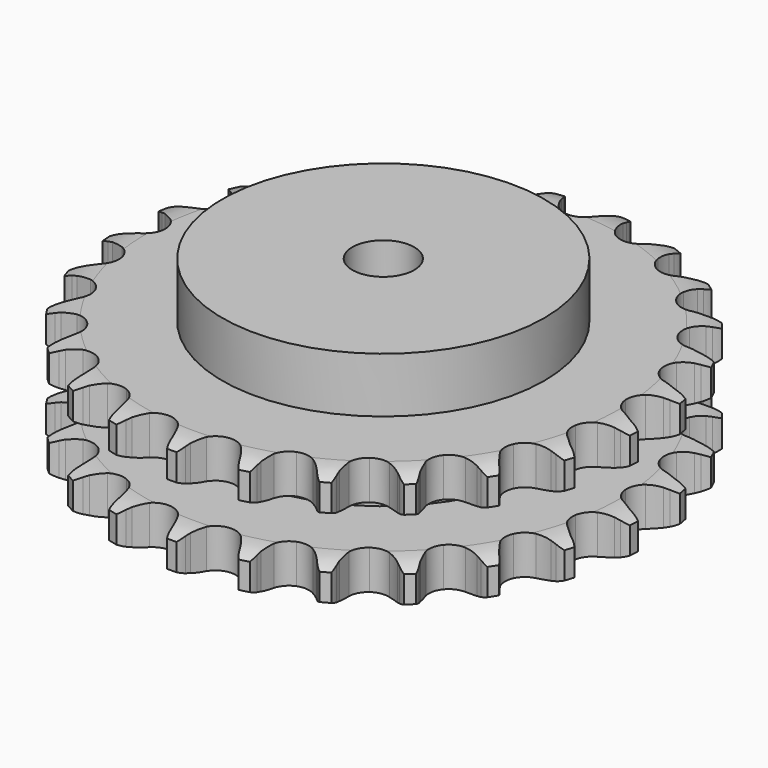
from build123d import *

# Parameters (mm, degrees)
PAD_DEPTH         = 47.7
SKETCH001_R       = 65
PAD001_DEPTH      = 70
SKETCH002_R       = 12.5
POCKET_DEPTH      = 0.0010001
POCKET_DEPTH_BACK = 70.001


with BuildPart() as part:
    # Sprocket → Pad (new body)
    with BuildSketch(Plane.XY):
        with BuildLine():
            ThreePointArc((-13.7140831285, 108.5581461512), (-11.5013283426, 106.1905086557), (-9.941056511, 103.3501666227))
            Line((-9.941056511, 103.3501666227), (-9.1690688607, 101.4043184139))
            ThreePointArc((-9.1690688607, 101.4043184139), (-7.9395303882, 98.8357731374), (-6.3694575445, 96.4600498879))
            ThreePointArc((-6.3694575445, 96.4600498879), (-3.5524561938, 94.1420189941), (0, 93.3120678956))
            ThreePointArc((0, 93.3120678956), (3.5524561938, 94.1420189941), (6.3694575445, 96.4600498879))
            ThreePointArc((6.3694575445, 96.4600498879), (7.9395303882, 98.8357731374), (9.1690688607, 101.4043184139))
            Line((9.1690688607, 101.4043184139), (9.941056511, 103.3501666227))
            ThreePointArc((9.941056511, 103.3501666227), (11.5013283426, 106.1905086557), (13.7140831285, 108.5581461512))
            ThreePointArc((13.7140831285, 108.5581461512), (15.2685126523, 105.7146026033), (16.0734013355, 102.5754713126))
            Line((16.0734013355, 102.5754713126), (16.3372228027, 100.4987699818))
            ThreePointArc((16.3372228027, 100.4987699818), (16.8893618281, 97.7051464944), (17.8192895994, 95.0135997211))
            ThreePointArc((17.8192895994, 95.0135997211), (19.9713188312, 92.0678342823), (23.2057676361, 90.3804976938))
            ThreePointArc((23.2057676361, 90.3804976938), (26.8530173311, 90.3009144223), (30.1579882457, 91.845560365))
            Line((30.1579882457, 91.845560365), (34.0992342061, 95.938260581))
            ThreePointArc((34.0992342061, 95.938260581), (34.6936683334, 96.800188844), (35.3308812163, 97.6309908685))
            ThreePointArc((35.3308812163, 97.6309908685), (37.5484985788, 99.9940745078), (40.2805431058, 101.7370385796))
            ThreePointArc((40.2805431058, 101.7370385796), (41.0789768436, 98.5962592783), (41.0779082622, 95.3555818937))
            Line((41.0779082622, 95.3555818937), (40.8169866733, 93.2785142231))
            ThreePointArc((40.8169866733, 93.2785142231), (40.657033326, 90.4353461627), (40.888385243, 87.5970956482))
            ThreePointArc((40.888385243, 87.5970956482), (42.2402224446, 84.2086889408), (44.9534315467, 81.7699884256))
            ThreePointArc((44.9534315467, 81.7699884256), (48.4663046309, 80.7858712939), (52.051581632, 81.4600765))
            Line((52.051581632, 81.4600765), (56.8868192581, 84.4440489996))
            ThreePointArc((56.8868192581, 84.4440489996), (57.6769309866, 85.1310684452), (58.5007367168, 85.7773008964))
            ThreePointArc((58.5007367168, 85.7773008964), (61.2363585556, 87.5146449061), (64.3160284182, 88.5234187114))
            ThreePointArc((64.3160284182, 88.5234187114), (64.3082978419, 85.2827503712), (63.5013391388, 82.1441505712))
            Line((63.5013391388, 82.1441505712), (62.7320691568, 80.1972263614))
            ThreePointArc((62.7320691568, 80.1972263614), (61.8700738939, 77.4831604338), (61.3883132648, 74.6765438962))
            ThreePointArc((61.3883132648, 74.6765438962), (61.8550175331, 71.0584019752), (63.8765060262, 68.0215700557))
            ThreePointArc((63.8765060262, 68.0215700557), (67.0342757642, 66.1947547624), (70.6745827121, 65.9561564393))
            Line((70.6745827121, 65.9561564393), (76.099996241, 67.6439072561))
            ThreePointArc((76.099996241, 67.6439072561), (77.0361399451, 68.1128499258), (77.9947757788, 68.5339076422))
            ThreePointArc((77.9947757788, 68.5339076422), (81.0765129128, 69.5363483086), (84.3103011274, 69.7475468791))
            ThreePointArc((84.3103011274, 69.7475468791), (83.4968919774, 66.6106126102), (81.9347473358, 63.7713001632))
            Line((81.9347473358, 63.7713001632), (80.7054650228, 62.0768518226))
            ThreePointArc((80.7054650228, 62.0768518226), (79.1955901769, 59.6624227716), (78.0309877938, 57.0637902501))
            ThreePointArc((78.0309877938, 57.0637902501), (77.5832343832, 53.443254279), (78.7859847106, 49.9991062734))
            ThreePointArc((78.7859847106, 49.9991062734), (81.3902368165, 47.4443783419), (84.8568398375, 46.3079684998))
            Line((84.8568398375, 46.3079684998), (90.5315305839, 46.5934500428))
            ThreePointArc((90.5315305839, 46.5934500428), (91.5548849117, 46.8148505441), (92.5881162338, 46.9842769207))
            ThreePointArc((92.5881162338, 46.9842769207), (95.8223317851, 47.1888272101), (99.007047545, 46.589180163))
            ThreePointArc((99.007047545, 46.589180163), (97.4390693099, 43.7530850822), (95.2198940227, 41.3914644316))
            Line((95.2198940227, 41.3914644316), (93.6078397074, 40.0559603812))
            ThreePointArc((93.6078397074, 40.0559603812), (91.544956268, 38.0928756637), (89.7706883818, 35.8655087966))
            ThreePointArc((89.7706883818, 35.8655087966), (88.4366112858, 32.4700703659), (88.7450502211, 28.83501476))
            ThreePointArc((88.7450502211, 28.83501476), (90.6321499572, 25.712897142), (93.7072296342, 23.7500805906))
            Line((93.7072296342, 23.7500805906), (99.2746359085, 22.6153550046))
            ThreePointArc((99.2746359085, 22.6153550046), (100.3208997439, 22.5753019296), (101.3638048306, 22.4824512842))
            ThreePointArc((101.3638048306, 22.4824512842), (104.5472811414, 21.8762585496), (107.482817043, 20.5034439141))
            ThreePointArc((107.482817043, 20.5034439141), (105.2587915618, 18.1463903059), (102.5220245739, 16.4108507625))
            Line((102.5220245739, 16.4108507625), (100.6284895577, 15.5182056335))
            ThreePointArc((100.6284895577, 15.5182056335), (98.1422160781, 14.129813082), (95.8697664653, 12.4136655213))
            ThreePointArc((95.8697664653, 12.4136655213), (93.7331906543, 9.4566725151), (93.1279378447, 5.8591132215))
            ThreePointArc((93.1279378447, 5.8591132215), (94.1793117943, 2.3657800492), (96.669649562, -0.3001122287))
            Line((96.669649562, -0.3001122287), (101.7799507524, -2.783745962))
            ThreePointArc((101.7799507524, -2.783745962), (102.7833834909, -3.0827359311), (103.7704327799, -3.4320294511))
            ThreePointArc((103.7704327799, -3.4320294511), (106.7031403257, -4.8108758908), (109.205045852, -6.8705991222))
            ThreePointArc((109.205045852, -6.8705991222), (106.4647168252, -8.600508911), (103.3823192715, -9.6009170149))
            Line((103.3823192715, -9.6009170149), (101.3262813234, -9.9946150462))
            ThreePointArc((101.3262813234, -9.9946150462), (98.5728395101, -10.7210776214), (95.9449945374, -11.8181740129))
            ThreePointArc((95.9449945374, -11.8181740129), (93.1401689273, -14.1509228489), (91.659254633, -17.484937949))
            ThreePointArc((91.659254633, -17.484937949), (91.8088411041, -21.1299877048), (93.5579598816, -24.331447893))
            Line((93.5579598816, -24.331447893), (97.8900569701, -28.007933932))
            ThreePointArc((97.8900569701, -28.007933932), (98.7876092422, -28.5470741559), (99.6567827967, -29.130863154))
            ThreePointArc((99.6567827967, -29.130863154), (102.1544487765, -31.1957253058), (104.0655200021, -33.8129371474))
            ThreePointArc((104.0655200021, -33.8129371474), (100.9810723806, -34.8070065226), (97.7467226357, -35.0094238665))
            Line((97.7467226357, -35.0094238665), (95.6573701815, -34.8794373048))
            ThreePointArc((95.6573701815, -34.8794373048), (92.8097689101, -34.8983235886), (89.9916457417, -35.3074342098))
            ThreePointArc((89.9916457417, -35.3074342098), (86.6948078411, -36.869363687), (84.4312833535, -39.7303461631))
            ThreePointArc((84.4312833535, -39.7303461631), (83.6696832781, -43.2980806206), (84.5676794998, -46.8339492014))
            Line((84.5676794998, -46.8339492014), (87.8493708939, -51.472280407))
            ThreePointArc((87.8493708939, -51.472280407), (88.5846461894, -52.2176947226), (89.2813306384, -52.999297589))
            ThreePointArc((89.2813306384, -52.999297589), (91.187017513, -55.62043257), (92.3871748042, -58.6306839764))
            ThreePointArc((92.3871748042, -58.6306839764), (89.1524157759, -58.8264519032), (85.9693399294, -58.2181598609))
            Line((85.9693399294, -58.2181598609), (83.977954668, -57.57265624))
            ThreePointArc((83.977954668, -57.57265624), (81.2151191991, -56.8827795376), (78.383790878, -56.5781984635))
            ThreePointArc((78.383790878, -56.5781984635), (74.802093137, -57.2711668085), (71.8981840244, -59.4793506097))
            ThreePointArc((71.8981840244, -59.4793506097), (70.2732515361, -62.7455958919), (70.2637007969, -66.3937012382))
            Line((70.2637007969, -66.3937012382), (72.2887857571, -71.7024342022))
            ThreePointArc((72.2887857571, -71.7024342022), (72.8155840251, -72.6072854867), (73.2960041223, -73.5375912387))
            ThreePointArc((73.2960041223, -73.5375912387), (74.4899705767, -76.5503034982), (74.9038036372, -79.7644493025))
            ThreePointArc((74.9038036372, -79.7644493025), (71.7219850083, -79.1496149622), (68.7901874222, -77.7688347598))
            Line((68.7901874222, -77.7688347598), (67.0218954133, -76.6483734463))
            ThreePointArc((67.0218954133, -76.6483734463), (64.5174248605, -75.293081248), (61.850794158, -74.2939464278))
            ThreePointArc((61.850794158, -74.2939464278), (58.2092878183, -74.0744118909), (54.84745737, -75.4910487078))
            ThreePointArc((54.84745737, -75.4910487078), (52.4612929532, -78.2505746111), (51.544795361, -81.7816928473))
            Line((51.544795361, -81.7816928473), (52.1860303515, -87.4272603534))
            ThreePointArc((52.1860303515, -87.4272603534), (52.4712509194, -88.4346934727), (52.7052201033, -89.4552475786))
            ThreePointArc((52.7052201033, -89.4552475786), (53.1124448342, -92.6702373253), (52.7139510106, -95.8863209258))
            ThreePointArc((52.7139510106, -95.8863209258), (49.7849981477, -94.4995166211), (47.2886944467, -92.4330077571))
            Line((47.2886944467, -92.4330077571), (45.8546039805, -90.9079914558))
            ThreePointArc((45.8546039805, -90.9079914558), (43.7658634394, -88.972441755), (41.4314845697, -87.3415325039))
            ThreePointArc((41.4314845697, -87.3415325039), (37.9589788672, -86.2232892475), (34.3504632542, -86.7593665789))
            ThreePointArc((34.3504632542, -86.7593665789), (31.3529983949, -88.838781942), (29.5871408641, -92.0310399228))
            Line((29.5871408641, -92.0310399228), (28.8042347322, -97.6587102016))
            ThreePointArc((28.8042347322, -97.6587102016), (28.8299561427, -98.7054244277), (28.802773269, -99.7521017197))
            ThreePointArc((28.802773269, -99.7521017197), (28.3976688488, -102.967359324), (27.2118869738, -105.9833023602))
            ThreePointArc((27.2118869738, -105.9833023602), (24.719836757, -103.9116661059), (22.8158788834, -101.2892749321))
            Line((22.8158788834, -101.2892749321), (21.8060991382, -99.4555260261))
            ThreePointArc((21.8060991382, -99.4555260261), (20.2643318588, -97.0613365288), (18.4088824315, -94.9011288732))
            ThreePointArc((18.4088824315, -94.9011288732), (15.3235676704, -92.9544402336), (11.6951031999, -92.5762743693))
            ThreePointArc((11.6951031999, -92.5762743693), (8.2746796392, -93.8449218773), (5.7704174929, -96.4977382934))
            Line((5.7704174929, -96.4977382934), (3.6125631101, -101.7539041242))
            ThreePointArc((3.6125631101, -101.7539041242), (3.3771691924, -102.7741305529), (3.090542261, -103.7811644472))
            ThreePointArc((3.090542261, -103.7811644472), (1.8985628903, -106.7946634488), (0, -109.4209631279))
            ThreePointArc((0, -109.4209631279), (-1.8985628903, -106.7946634488), (-3.090542261, -103.7811644472))
            Line((-3.090542261, -103.7811644472), (-3.6125631101, -101.7539041242))
            ThreePointArc((-3.6125631101, -101.7539041242), (-4.5104822194, -99.0515105619), (-5.7704174929, -96.4977382934))
            ThreePointArc((-5.7704174929, -96.4977382934), (-8.2746796392, -93.8449218773), (-11.6951031999, -92.5762743693))
            ThreePointArc((-11.6951031999, -92.5762743693), (-15.3235676704, -92.9544402336), (-18.4088824315, -94.9011288732))
            Line((-18.4088824315, -94.9011288732), (-21.8060991382, -99.4555260261))
            ThreePointArc((-21.8060991382, -99.4555260261), (-22.2878177186, -100.3851600785), (-22.8158788834, -101.2892749321))
            ThreePointArc((-22.8158788834, -101.2892749321), (-24.719836757, -103.9116661059), (-27.2118869738, -105.9833023602))
            ThreePointArc((-27.2118869738, -105.9833023602), (-28.3976688488, -102.967359324), (-28.802773269, -99.7521017197))
            Line((-28.802773269, -99.7521017197), (-28.8042347322, -97.6587102016))
            ThreePointArc((-28.8042347322, -97.6587102016), (-29.0018861115, -94.8179139004), (-29.5871408641, -92.0310399228))
            ThreePointArc((-29.5871408641, -92.0310399228), (-31.3529983949, -88.838781942), (-34.3504632542, -86.7593665789))
            ThreePointArc((-34.3504632542, -86.7593665789), (-37.9589788672, -86.2232892475), (-41.4314845697, -87.3415325039))
            Line((-41.4314845697, -87.3415325039), (-45.8546039805, -90.9079914558))
            ThreePointArc((-45.8546039805, -90.9079914558), (-46.5523790735, -91.6886208057), (-47.2886944467, -92.4330077571))
            ThreePointArc((-47.2886944467, -92.4330077571), (-49.7849981477, -94.4995166211), (-52.7139510106, -95.8863209258))
            ThreePointArc((-52.7139510106, -95.8863209258), (-53.1124448342, -92.6702373253), (-52.7052201033, -89.4552475786))
            Line((-52.7052201033, -89.4552475786), (-52.1860303515, -87.4272603534))
            ThreePointArc((-52.1860303515, -87.4272603534), (-51.6709948376, -84.6265589926), (-51.544795361, -81.7816928473))
            ThreePointArc((-51.544795361, -81.7816928473), (-52.4612929532, -78.2505746111), (-54.84745737, -75.4910487078))
            ThreePointArc((-54.84745737, -75.4910487078), (-58.2092878183, -74.0744118909), (-61.850794158, -74.2939464278))
            Line((-61.850794158, -74.2939464278), (-67.0218954133, -76.6483734463))
            ThreePointArc((-67.0218954133, -76.6483734463), (-67.8918832435, -77.2309482804), (-68.7901874222, -77.7688347598))
            ThreePointArc((-68.7901874222, -77.7688347598), (-71.7219850083, -79.1496149622), (-74.9038036372, -79.7644493025))
            ThreePointArc((-74.9038036372, -79.7644493025), (-74.4899705767, -76.5503034982), (-73.2960041223, -73.5375912387))
            Line((-73.2960041223, -73.5375912387), (-72.2887857571, -71.7024342022))
            ThreePointArc((-72.2887857571, -71.7024342022), (-71.0934249255, -69.1178061487), (-70.2637007969, -66.3937012382))
            ThreePointArc((-70.2637007969, -66.3937012382), (-70.2732515361, -62.7455958919), (-71.8981840244, -59.4793506097))
            ThreePointArc((-71.8981840244, -59.4793506097), (-74.802093137, -57.2711668085), (-78.383790878, -56.5781984635))
            Line((-78.383790878, -56.5781984635), (-83.977954668, -57.57265624))
            ThreePointArc((-83.977954668, -57.57265624), (-84.9654907005, -57.9205712392), (-85.9693399294, -58.2181598609))
            ThreePointArc((-85.9693399294, -58.2181598609), (-89.1524157759, -58.8264519032), (-92.3871748042, -58.6306839764))
            ThreePointArc((-92.3871748042, -58.6306839764), (-91.187017513, -55.62043257), (-89.2813306384, -52.999297589))
            Line((-89.2813306384, -52.999297589), (-87.8493708939, -51.472280407))
            ThreePointArc((-87.8493708939, -51.472280407), (-86.048793662, -49.2661273469), (-84.5676794998, -46.8339492014))
            ThreePointArc((-84.5676794998, -46.8339492014), (-83.6696832781, -43.2980806206), (-84.4312833535, -39.7303461631))
            ThreePointArc((-84.4312833535, -39.7303461631), (-86.6948078411, -36.869363687), (-89.9916457417, -35.3074342098))
            Line((-89.9916457417, -35.3074342098), (-95.6573701815, -34.8794373048))
            ThreePointArc((-95.6573701815, -34.8794373048), (-96.7004038955, -34.97083169), (-97.7467226357, -35.0094238665))
            ThreePointArc((-97.7467226357, -35.0094238665), (-100.9810723806, -34.8070065226), (-104.0655200021, -33.8129371474))
            ThreePointArc((-104.0655200021, -33.8129371474), (-102.1544487765, -31.1957253058), (-99.6567827967, -29.130863154))
            Line((-99.6567827967, -29.130863154), (-97.8900569701, -28.007933932))
            ThreePointArc((-97.8900569701, -28.007933932), (-95.5974002274, -26.3188765757), (-93.5579598816, -24.331447893))
            ThreePointArc((-93.5579598816, -24.331447893), (-91.8088411041, -21.1299877048), (-91.659254633, -17.484937949))
            ThreePointArc((-91.659254633, -17.484937949), (-93.1401689273, -14.1509228489), (-95.9449945374, -11.8181740129))
            Line((-95.9449945374, -11.8181740129), (-101.3262813234, -9.9946150462))
            ThreePointArc((-101.3262813234, -9.9946150462), (-102.3592750746, -9.823746172), (-103.3823192715, -9.6009170149))
            ThreePointArc((-103.3823192715, -9.6009170149), (-106.4647168252, -8.600508911), (-109.205045852, -6.8705991222))
            ThreePointArc((-109.205045852, -6.8705991222), (-106.7031403257, -4.8108758908), (-103.7704327799, -3.4320294511))
            Line((-103.7704327799, -3.4320294511), (-101.7799507524, -2.783745962))
            ThreePointArc((-101.7799507524, -2.783745962), (-99.1392705538, -1.7179139952), (-96.669649562, -0.3001122287))
            ThreePointArc((-96.669649562, -0.3001122287), (-94.1793117943, 2.3657800492), (-93.1279378447, 5.8591132215))
            ThreePointArc((-93.1279378447, 5.8591132215), (-93.7331906543, 9.4566725151), (-95.8697664653, 12.4136655213))
            Line((-95.8697664653, 12.4136655213), (-100.6284895577, 15.5182056335))
            ThreePointArc((-100.6284895577, 15.5182056335), (-101.5865365496, 15.9406014472), (-102.5220245739, 16.4108507625))
            ThreePointArc((-102.5220245739, 16.4108507625), (-105.2587915618, 18.1463903059), (-107.482817043, 20.5034439141))
            ThreePointArc((-107.482817043, 20.5034439141), (-104.5472811414, 21.8762585496), (-101.3638048306, 22.4824512842))
            Line((-101.3638048306, 22.4824512842), (-99.2746359085, 22.6153550046))
            ThreePointArc((-99.2746359085, 22.6153550046), (-96.4518559027, 22.9909914396), (-93.7072296342, 23.7500805906))
            ThreePointArc((-93.7072296342, 23.7500805906), (-90.6321499572, 25.712897142), (-88.7450502211, 28.83501476))
            ThreePointArc((-88.7450502211, 28.83501476), (-88.4366112858, 32.4700703659), (-89.7706883818, 35.8655087966))
            Line((-89.7706883818, 35.8655087966), (-93.6078397074, 40.0559603812))
            ThreePointArc((-93.6078397074, 40.0559603812), (-94.4307423241, 40.703342452), (-95.2198940227, 41.3914644316))
            ThreePointArc((-95.2198940227, 41.3914644316), (-97.4390693099, 43.7530850822), (-99.007047545, 46.589180163))
            ThreePointArc((-99.007047545, 46.589180163), (-95.8223317851, 47.1888272101), (-92.5881162338, 46.9842769207))
            Line((-92.5881162338, 46.9842769207), (-90.5315305839, 46.5934500428))
            ThreePointArc((-90.5315305839, 46.5934500428), (-87.70401642, 46.2552883273), (-84.8568398375, 46.3079684998))
            ThreePointArc((-84.8568398375, 46.3079684998), (-81.3902368165, 47.4443783419), (-78.7859847106, 49.9991062734))
            ThreePointArc((-78.7859847106, 49.9991062734), (-77.5832343832, 53.443254279), (-78.0309877938, 57.0637902501))
            Line((-78.0309877938, 57.0637902501), (-80.7054650228, 62.0768518226))
            ThreePointArc((-80.7054650228, 62.0768518226), (-81.3415172664, 62.9085427541), (-81.9347473358, 63.7713001632))
            ThreePointArc((-81.9347473358, 63.7713001632), (-83.4968919774, 66.6106126102), (-84.3103011274, 69.7475468791))
            ThreePointArc((-84.3103011274, 69.7475468791), (-81.0765129128, 69.5363483086), (-77.9947757788, 68.5339076422))
            Line((-77.9947757788, 68.5339076422), (-76.099996241, 67.6439072561))
            ThreePointArc((-76.099996241, 67.6439072561), (-73.4454110329, 66.6131953344), (-70.6745827121, 65.9561564393))
            ThreePointArc((-70.6745827121, 65.9561564393), (-67.0342757642, 66.1947547624), (-63.8765060262, 68.0215700557))
            ThreePointArc((-63.8765060262, 68.0215700557), (-61.8550175331, 71.0584019752), (-61.3883132648, 74.6765438962))
            Line((-61.3883132648, 74.6765438962), (-62.7320691568, 80.1972263614))
            ThreePointArc((-62.7320691568, 80.1972263614), (-63.1413055257, 81.1609679536), (-63.5013391388, 82.1441505712))
            ThreePointArc((-63.5013391388, 82.1441505712), (-64.3082978419, 85.2827503712), (-64.3160284182, 88.5234187114))
            ThreePointArc((-64.3160284182, 88.5234187114), (-61.2363585556, 87.5146449061), (-58.5007367168, 85.7773008964))
            Line((-58.5007367168, 85.7773008964), (-56.8868192581, 84.4440489996))
            ThreePointArc((-56.8868192581, 84.4440489996), (-54.5719603572, 82.7855502924), (-52.051581632, 81.4600765))
            ThreePointArc((-52.051581632, 81.4600765), (-48.4663046309, 80.7858712939), (-44.9534315467, 81.7699884256))
            ThreePointArc((-44.9534315467, 81.7699884256), (-42.2402224446, 84.2086889408), (-40.888385243, 87.5970956482))
            Line((-40.888385243, 87.5970956482), (-40.8169866733, 93.2785142231))
            ThreePointArc((-40.8169866733, 93.2785142231), (-40.9736933413, 94.3137510474), (-41.0779082622, 95.3555818937))
            ThreePointArc((-41.0779082622, 95.3555818937), (-41.0789768436, 98.5962592783), (-40.2805431058, 101.7370385796))
            ThreePointArc((-40.2805431058, 101.7370385796), (-37.5484985788, 99.9940745078), (-35.3308812163, 97.6309908685))
            Line((-35.3308812163, 97.6309908685), (-34.0992342061, 95.938260581))
            ThreePointArc((-34.0992342061, 95.938260581), (-32.2695527107, 93.7561846616), (-30.1579882457, 91.845560365))
            ThreePointArc((-30.1579882457, 91.845560365), (-26.8530173311, 90.3009144223), (-23.2057676361, 90.3804976938))
            ThreePointArc((-23.2057676361, 90.3804976938), (-19.9713188312, 92.0678342823), (-17.8192895994, 95.0135997211))
            Line((-17.8192895994, 95.0135997211), (-16.3372228027, 100.4987699818))
            ThreePointArc((-16.3372228027, 100.4987699818), (-16.2315533136, 101.5404543011), (-16.0734013355, 102.5754713126))
            ThreePointArc((-16.0734013355, 102.5754713126), (-15.2685126523, 105.7146026033), (-13.7140831285, 108.5581461512))
        make_face()
    extrude(amount=PAD_DEPTH)

    # Sketch → Groove (revolve, cut)
    with BuildSketch(Plane.XZ):
        with BuildLine():
            ThreePointArc((95.6257022694, 0), (101.3265793949, 0.6326982121), (106.75, 2.5))
            Line((106.75, 2.5), (106.75, 13.3))
            ThreePointArc((106.75, 13.3), (101.3265793949, 15.1673017879), (95.6257022694, 15.8))
            Line((65, 15.8), (95.6257022694, 15.8))
            Line((65, 31.9), (65, 15.8))
            Line((95.6257022694, 31.9), (65, 31.9))
            ThreePointArc((95.6257022694, 31.9), (101.3265793949, 32.5326982121), (106.75, 34.4))
            Line((106.75, 34.4), (106.75, 45.2))
            ThreePointArc((106.75, 45.2), (101.3265793949, 47.0673017879), (95.6257022694, 47.7))
            Line((95.6257022694, 47.7), (116.75, 47.7))
            Line((116.75, 47.7), (116.75, 0))
            Line((95.6257022694, 0), (116.75, 0))
        make_face()
    revolve(axis=Axis((0, 0, 0), (0, 0, 1)), mode=Mode.SUBTRACT)

    # Sketch001 → Pad001 (join)
    with BuildSketch(Plane.XY):
        Circle(SKETCH001_R)
    extrude(amount=PAD001_DEPTH)

    # Sketch002 → Pocket (cut, two sides)
    with BuildSketch(Plane.XY) as pocket_sk:
        Circle(SKETCH002_R)
    extrude(amount=-POCKET_DEPTH, mode=Mode.SUBTRACT)
    extrude(pocket_sk.sketch, amount=POCKET_DEPTH_BACK, mode=Mode.SUBTRACT)


solid = part.part
